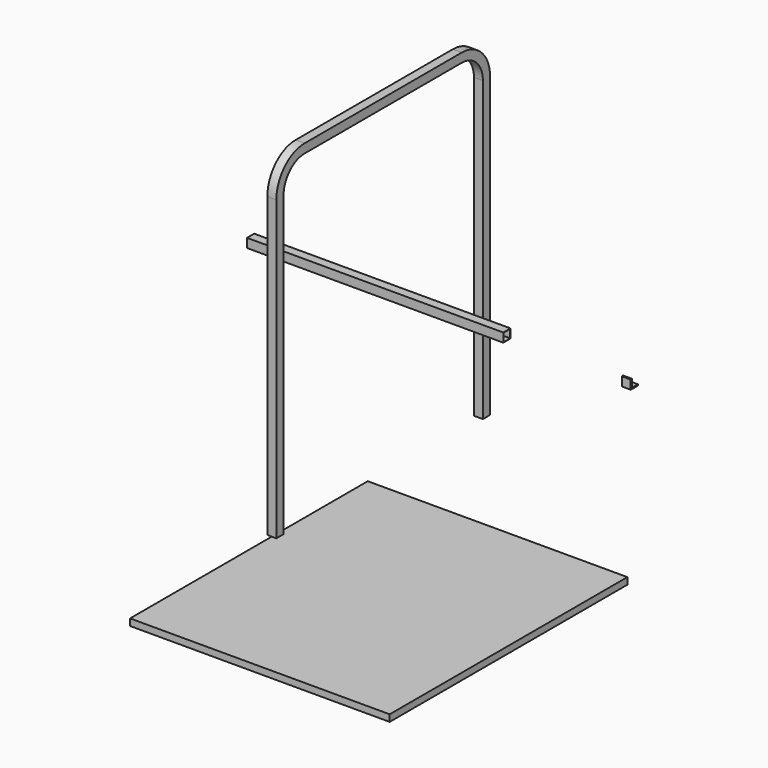
from build123d import *

# Parameters (mm, degrees)
F1_DEPTH = 12.7
F2_W     = 25.4
F2_H     = 25.4
F2_W_2   = 23.6
F2_H_2   = 23.6
F3_DEPTH = 362.3
F6_DEPTH = 12.7
F8_W     = 734
F8_H     = 840
F9_DEPTH = 9.5


with BuildPart() as f1:
    # F0 (on Right) → F1 (new body, symmetric)
    with BuildSketch(Plane.YZ):
        with BuildLine():
            Line((-377.7, 377.5), (-377.7, -465))
            Line((-377.7, -465), (-352.3, -465))
            Line((-352.3, -465), (-352.3, 377.5))
            ThreePointArc((-352.3, 377.5), (-330.391587, 430.391587), (-277.5, 452.3))
            Line((-277.5, 452.3), (277.5, 452.3))
            ThreePointArc((277.5, 452.3), (330.391587, 430.391587), (352.3, 377.5))
            Line((352.3, 377.5), (352.3, -465))
            Line((352.3, -465), (377.7, -465))
            Line((377.7, -465), (377.7, 377.5))
            ThreePointArc((377.7, 377.5), (348.352099, 448.352099), (277.5, 477.7))
            Line((277.5, 477.7), (-277.5, 477.7))
            ThreePointArc((-277.5, 477.7), (-348.352099, 448.352099), (-377.7, 377.5))
        make_face()
    extrude(amount=F1_DEPTH, both=True)


with BuildPart() as f3:
    # F2 (on Right) → F3 (new body, symmetric)
    with BuildSketch(Plane.YZ):
        Rectangle(F2_W, F2_H)
        Rectangle(F2_W_2, F2_H_2, mode=Mode.SUBTRACT)
    extrude(amount=F3_DEPTH, both=True)


with BuildPart() as f6:
    # F5 (on offset) → F6 (new body, symmetric)
    with BuildSketch(Plane.YZ.offset(710)):
        Polygon((-12.7, -12.7), (12.7, -12.7), (12.7, -9.35725), (7.9375, -9.35725), (-7.9375, -9.35725), (-7.9375, 9.35725), (-7.9375, 12.7), (-12.7, 12.7), align=None)
    extrude(amount=F6_DEPTH, both=True)


with BuildPart() as f9:
    # F8 (on offset) → F9 (new body, symmetric)
    with BuildSketch(Plane.XY.offset(-780)):
        Rectangle(F8_W, F8_H)
    extrude(amount=F9_DEPTH, both=True)


solid = Compound([f1.part, f3.part, f6.part, f9.part])
